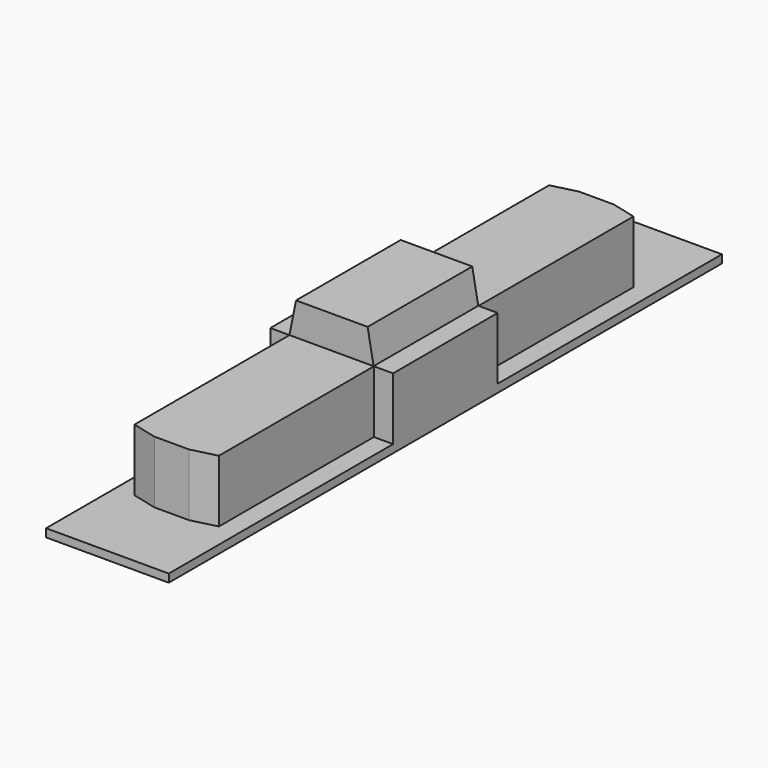
from build123d import *

# Parameters (mm, degrees)
F0_W     = 19.7
F0_H     = 111
F1_DEPTH = 1.3
F3_DEPTH = 10
F4_W     = 19.7
F4_H     = 21
F5_DEPTH = 10
F7_DEPTH = 21


with BuildPart() as f1:
    # F0 (on Top) → F1 (new body)
    with BuildSketch(Plane.XY):
        with Locations((9.85, 55.5)):
            Rectangle(F0_W, F0_H)
    extrude(amount=F1_DEPTH)

    # F2 (on face) → F3 (join)
    with BuildSketch(Plane.XY.offset(1.3)):
        Polygon((12.625, 98.1), (7.075, 98.1), (3.075, 97.1), (3.075, 13.9), (7.075, 12.9), (12.625, 12.9), (16.625, 13.9), (16.625, 97.1), align=None)
    extrude(amount=F3_DEPTH)

    # F4 (on face) → F5 (join)
    with BuildSketch(Plane.XY.offset(1.3)):
        with Locations((9.85, 55.5)):
            Rectangle(F4_W, F4_H)
    extrude(amount=F5_DEPTH)

    # F6 (on face) → F7 (join, through all)
    with BuildSketch(Plane(origin=(0, 66, 0), x_dir=(-1, 0, 0), z_dir=(0, 1, 0))):
        Polygon((-16.575, 11.3), (-3.075, 11.3), (-4.125, 16.5472850204), (-15.625, 16.5472850204), align=None)
    extrude(amount=-F7_DEPTH)


solid = f1.part
